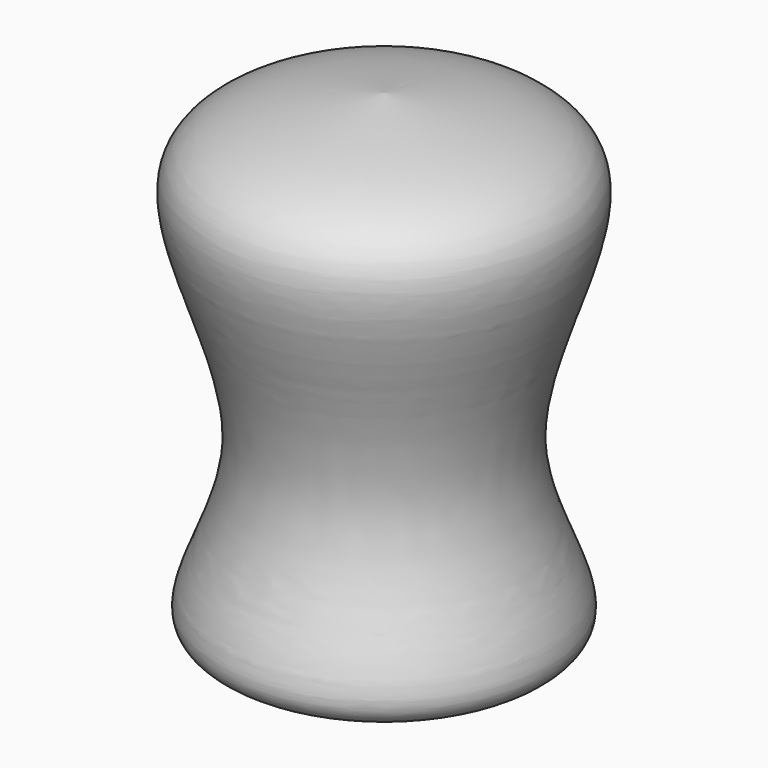
from build123d import *


with BuildPart() as f1:
    # F0 (on Right) → F1 (revolve)
    with BuildSketch(Plane.YZ):
        with BuildLine():
            add(Edge.make_bspline(
                [(0, 44.1206134856), (6.242827302, 43.2919733739), (19.612188716, 41.5173945493), (5.39307887, 20.3517704264), (17.5891801237, 5.4632538662), (5.893302002, 5.825909344), (0, 6.008643657)],
                knots=[0, 0, 0, 0, 0.2496274633, 0.5345910778, 0.7654904314, 1, 1, 1, 1], degree=3))
            Line((0, 44.1206134856), (0, 6.008643657))
        make_face()
    revolve(axis=Axis((0, 0, 25.0646285713), (0, 0, -1)))


solid = f1.part
